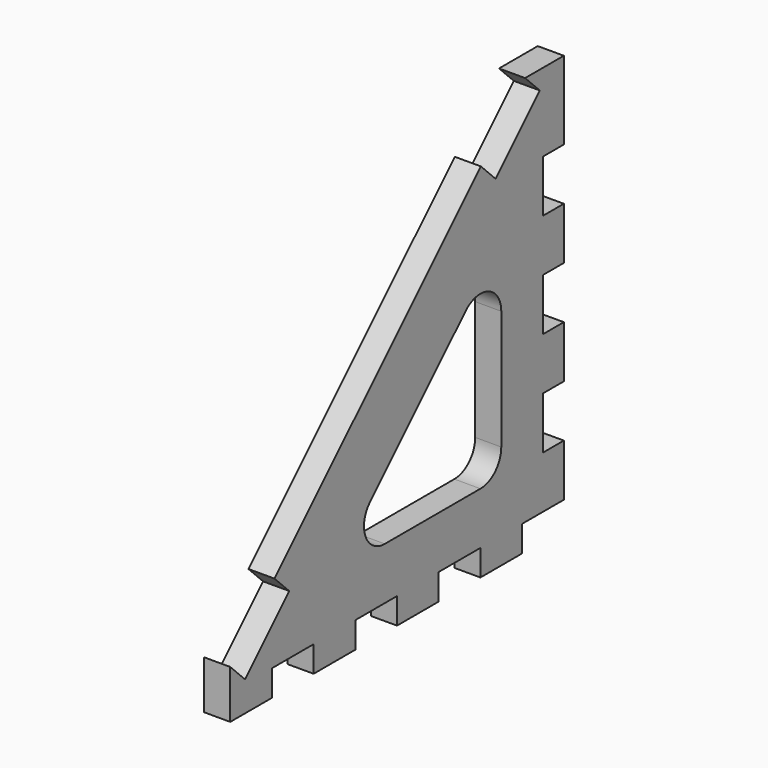
from build123d import *

# Parameters (mm, degrees)
PAD005_DEPTH           = 6.35
SKETCH004_W            = 12.7
SKETCH004_H            = 6.35
POCKET_DEPTH           = 0.001
POCKET_DEPTH_BACK      = 6.351
LINEARPATTERN_COUNT    = 7
LINEARPATTERN_PITCH    = 25.4
SKETCH005_W            = 6.35
SKETCH005_H            = 12.7
POCKET001_DEPTH        = 0.001
POCKET001_DEPTH_BACK   = 6.351
LINEARPATTERN001_COUNT = 3
LINEARPATTERN001_PITCH = 25.4
POCKET005_DEPTH        = 0.001
POCKET005_DEPTH_BACK   = 6.351


with BuildPart() as part:
    # MirroredSketch001 → Pad005 (new body)
    with BuildSketch(Plane.YZ):
        Polygon((-88.129616, 25.267823), (-25.267823, 88.129616), (-20.777695, 83.639488), (-7.307311, 97.109872), (-11.797439, 101.6), (0, 101.6), (0, 0), (-101.6, 0), (-101.6, 11.797439), (-97.109872, 7.307311), (-83.639488, 20.777695), align=None)
    extrude(amount=PAD005_DEPTH)

    # Sketch004 (on YZ_Plane003 of Origin007) → Pocket (cut, two sides)
    with BuildSketch(Plane.YZ) as pocket_sk:
        with Locations((-6.35, 3.175)):
            Rectangle(SKETCH004_W, SKETCH004_H)
    pocket = extrude(amount=-POCKET_DEPTH, mode=Mode.SUBTRACT) + extrude(pocket_sk.sketch, amount=POCKET_DEPTH_BACK, mode=Mode.SUBTRACT)

    # LinearPattern: Pocket ×7
    with Locations(*[(0, -i * LINEARPATTERN_PITCH, 0) for i in range(1, LINEARPATTERN_COUNT)]):
        add(pocket, mode=Mode.SUBTRACT)

    # Sketch005 (on YZ_Plane003 of Origin007) → Pocket001 (cut, two sides)
    with BuildSketch(Plane.YZ) as pocket001_sk:
        with Locations((-3.175, 25.4)):
            Rectangle(SKETCH005_W, SKETCH005_H)
    pocket001 = extrude(amount=-POCKET001_DEPTH, mode=Mode.SUBTRACT) + extrude(pocket001_sk.sketch, amount=POCKET001_DEPTH_BACK, mode=Mode.SUBTRACT)

    # LinearPattern001: Pocket001 ×3
    with Locations(*[(0, 0, i * LINEARPATTERN001_PITCH) for i in range(1, LINEARPATTERN001_COUNT)]):
        add(pocket001, mode=Mode.SUBTRACT)

    # Sketch012 → Pocket005 (cut, two sides)
    with BuildSketch(Plane.YZ) as pocket005_sk:
        with BuildLine():
            Line((-19.05, 54.519744), (-19.05, 25.4))
            ThreePointArc((-25.4, 19.05), (-20.909872, 20.909872), (-19.05, 25.4))
            Line((-25.4, 19.05), (-54.519744, 19.05))
            ThreePointArc((-59.009872, 29.890128), (-60.386379, 22.96996), (-54.519744, 19.05))
            Line((-59.009872, 29.890128), (-29.890128, 59.009872))
            ThreePointArc((-19.05, 54.519744), (-22.96996, 60.386379), (-29.890128, 59.009872))
        make_face()
    extrude(amount=-POCKET005_DEPTH, mode=Mode.SUBTRACT)
    extrude(pocket005_sk.sketch, amount=POCKET005_DEPTH_BACK, mode=Mode.SUBTRACT)


solid = part.part
